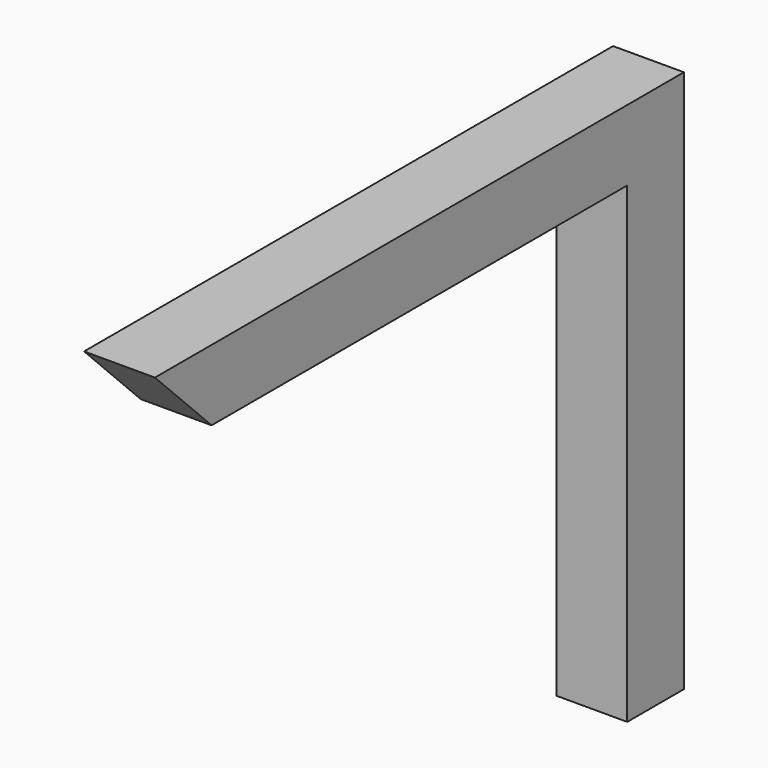
from build123d import *

# Parameters (mm, degrees)
F0_W     = 30
F0_H     = 200
F1_DEPTH = 30
F2_T     = -2


with BuildPart() as f1:
    # F0 (on Right) → F1 (new body)
    with BuildSketch(Plane.YZ):
        with Locations((125, -115)):
            Rectangle(F0_W, F0_H)
        Polygon((110, -15), (140, -15), (140, 15), (-140, 15), (-110, -15), align=None)
    extrude(amount=F1_DEPTH)

    # F2
    f2_openings = [f1.faces().sort_by_distance(p)[0] for p in [
        (15, 125, -215),
    ]]
    offset(amount=F2_T, openings=f2_openings, kind=Kind.INTERSECTION)


solid = f1.part
